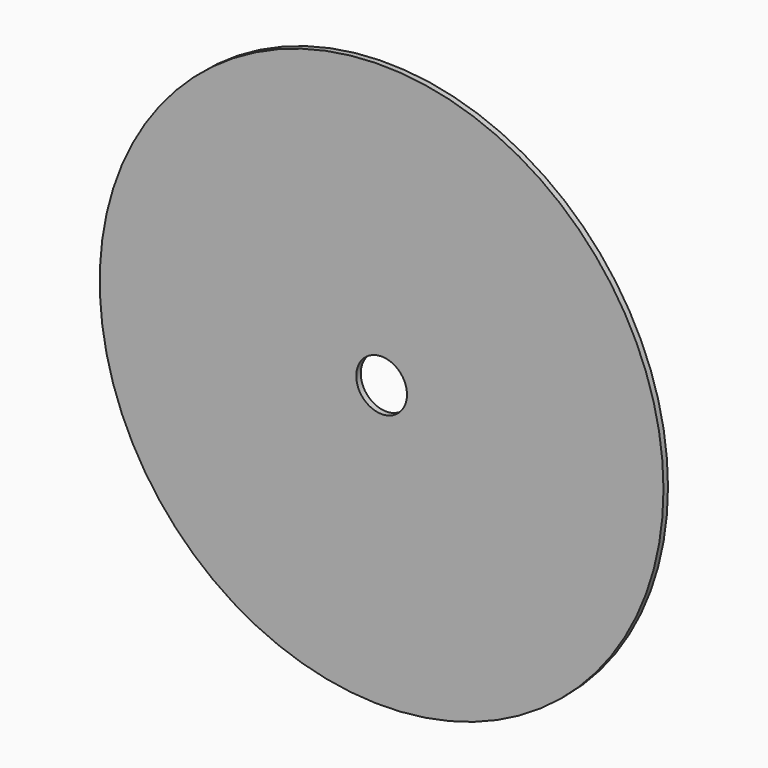
from build123d import *

# Parameters (mm, degrees)
SKETCH_R          = 100
PAD_DEPTH         = 2
SKETCH001_R       = 9
POCKET_DEPTH      = 0.001
POCKET_DEPTH_BACK = -2.001


with BuildPart() as part:
    # Sketch → Pad (new body)
    with BuildSketch(Plane.XZ):
        Circle(SKETCH_R)
    extrude(amount=PAD_DEPTH)

    # Sketch001 → Pocket (cut, two sides)
    with BuildSketch(Plane.XZ) as pocket_sk:
        Circle(SKETCH001_R)
    extrude(amount=-POCKET_DEPTH, mode=Mode.SUBTRACT)
    extrude(pocket_sk.sketch, amount=-POCKET_DEPTH_BACK, mode=Mode.SUBTRACT)


solid = part.part
